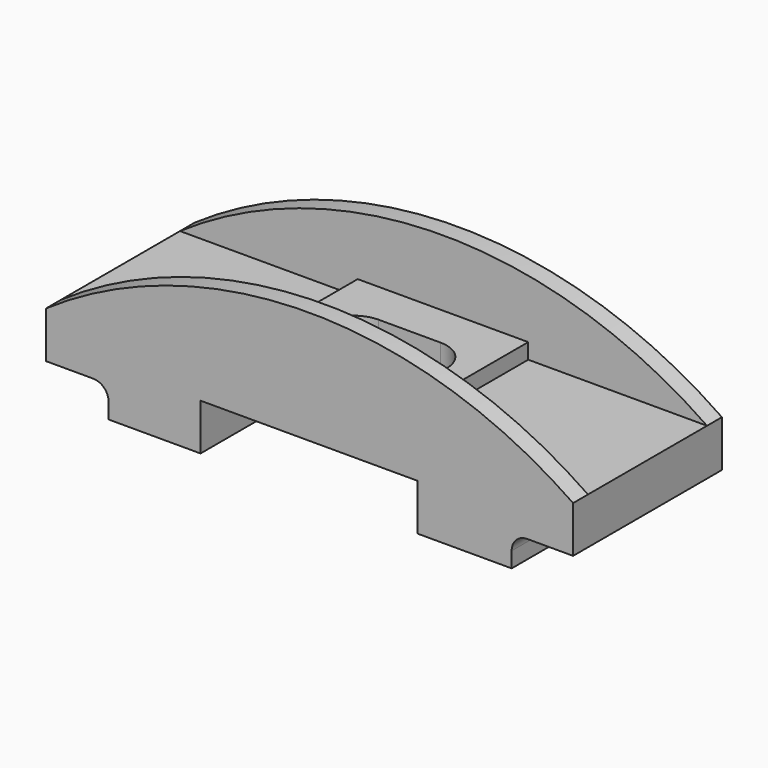
from build123d import *

# Parameters (mm, degrees)
F0_W      = 1700
F0_H      = 480
F1_DEPTH  = 250
F2_W      = 1700
F2_H      = 60
F3_DEPTH  = 250
F5_DEPTH  = 60
F7_DEPTH  = 60
F8_W      = 550
F8_H      = 480
F9_DEPTH  = 50
F11_DEPTH = 300.001
F12_W     = 700
F12_H     = 300
F13_DEPTH = 600.001
F14_W     = 403.557981
F14_H     = 200
F15_DEPTH = 600.001
F16_R     = 50
F17_W     = 396.442019
F17_H     = 200
F18_DEPTH = 600.001
F19_R     = 50


with BuildPart() as f1:
    # F0 (on Top) → F1 (new body)
    with BuildSketch(Plane.XY):
        with Locations((1.77899, 0)):
            Rectangle(F0_W, F0_H)
    extrude(amount=F1_DEPTH)

    # F2 (on face) → F3 (join)
    with BuildSketch(Plane.XY.offset(250)):
        with Locations((1.77899, -270)):
            Rectangle(F2_W, F2_H)
        with Locations((1.77899, 270)):
            Rectangle(F2_W, F2_H)
    extrude(amount=-F3_DEPTH)

    # F4 (on face) → F5 (join)
    with BuildSketch(Plane.XZ.offset(300)):
        with BuildLine():
            Line((-848.22101, 250), (851.77899, 250))
            ThreePointArc((851.77899, 250), (1.77899, 514.079291), (-848.22101, 250))
        make_face()
    extrude(amount=-F5_DEPTH)

    # F6 (on face) → F7 (join)
    with BuildSketch(Plane(origin=(0, 300, 0), x_dir=(-1, 0, 0), z_dir=(0, 1, 0))):
        with BuildLine():
            Line((-851.77899, 250), (848.22101, 250))
            ThreePointArc((848.22101, 250), (-1.77899, 514.079291), (-851.77899, 250))
        make_face()
    extrude(amount=-F7_DEPTH)

    # F8 (on face) → F9 (join)
    with BuildSketch(Plane.XY.offset(250)):
        Rectangle(F8_W, F8_H)
    extrude(amount=F9_DEPTH)

    # F10 (on face) → F11 (cut, through all)
    with BuildSketch(Plane.XY.offset(300)):
        with BuildLine():
            Line((-96.148637, -100), (103.851363, -100))
            ThreePointArc((103.851363, -100), (203.851363, 0), (103.851363, 100))
            Line((103.851363, 100), (-96.148637, 100))
            ThreePointArc((-96.148637, 100), (-196.148637, 0), (-96.148637, -100))
        make_face()
    extrude(amount=-F11_DEPTH, mode=Mode.SUBTRACT)

    # F12 (on face) → F13 (cut, through all)
    with BuildSketch(Plane.XZ.offset(300)):
        Rectangle(F12_W, F12_H)
    extrude(amount=-F13_DEPTH, mode=Mode.SUBTRACT)

    # F14 (on face) → F15 (cut, through all)
    with BuildSketch(Plane.XZ.offset(300)):
        with Locations((-848.22101, 0)):
            Rectangle(F14_W, F14_H)
    extrude(amount=-F15_DEPTH, mode=Mode.SUBTRACT)

    # F16
    f16_edges = [f1.edges().sort_by_distance(p)[0] for p in [
        (-646.442019, 0, 100),
    ]]
    fillet(f16_edges, radius=F16_R)

    # F17 (on face) → F18 (cut, through all)
    with BuildSketch(Plane.XZ.offset(300)):
        with Locations((851.77899, 0)):
            Rectangle(F17_W, F17_H)
    extrude(amount=-F18_DEPTH, mode=Mode.SUBTRACT)

    # F19
    f19_edges = [f1.edges().sort_by_distance(p)[0] for p in [
        (653.557981, 0, 100),
    ]]
    fillet(f19_edges, radius=F19_R)


solid = f1.part
